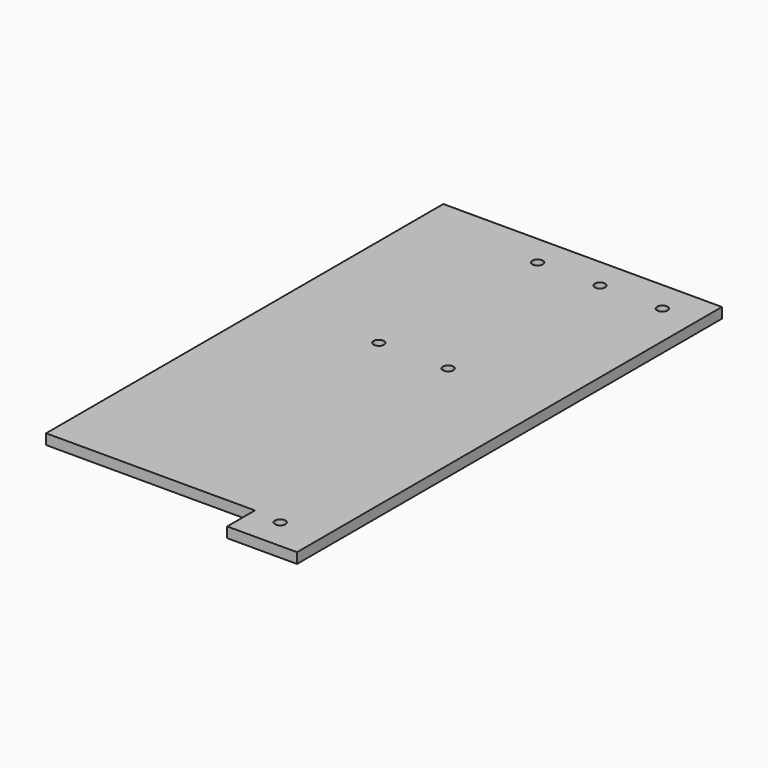
from build123d import *

# Parameters (mm, degrees)
SKETCH_W     = 80.45
SKETCH_H     = 153.35
SKETCH_R     = 1.5
PAD_DEPTH    = 3
SKETCH001_W  = 60.3
SKETCH001_H  = 10
POCKET_DEPTH = 3.001


with BuildPart() as part:
    # Sketch → Pad (new body)
    with BuildSketch(Plane.XY):
        with Locations((40.225, 76.675)):
            Rectangle(SKETCH_W, SKETCH_H)
        with Locations((68.4, 9)):
            Circle(SKETCH_R, mode=Mode.SUBTRACT)
        with Locations((70.45, 144.35)):
            Circle(SKETCH_R, mode=Mode.SUBTRACT)
        with Locations((52.45, 144.35)):
            Circle(SKETCH_R, mode=Mode.SUBTRACT)
        with Locations((34.45, 144.35)):
            Circle(SKETCH_R, mode=Mode.SUBTRACT)
        with Locations((31, 91.35)):
            Circle(SKETCH_R, mode=Mode.SUBTRACT)
        with Locations((51, 91.35)):
            Circle(SKETCH_R, mode=Mode.SUBTRACT)
    extrude(amount=PAD_DEPTH)

    # Sketch001 → Pocket (cut, through all)
    with BuildSketch(Plane.XY.offset(3)):
        with Locations((30.15, 5)):
            Rectangle(SKETCH001_W, SKETCH001_H)
    extrude(amount=-POCKET_DEPTH, mode=Mode.SUBTRACT)


solid = part.part
